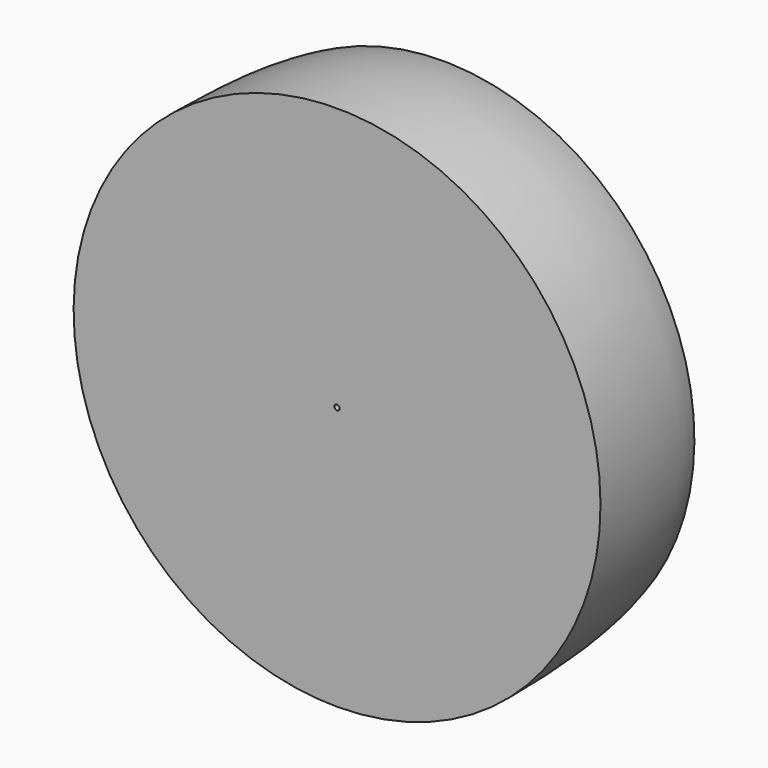
from build123d import *

# Parameters (mm, degrees)
SKETCH043_W   = 5.272505
SKETCH043_H   = 4.54278
SKETCH043_W_2 = 8.635091
SKETCH043_H_2 = 4.530322


with BuildPart() as part:
    # Sketch042 → Revolution008 (revolve)
    with BuildSketch(Plane(origin=(0, 0, -0.01), x_dir=(0, -1, 0), z_dir=(1, 0, 0))):
        with BuildLine():
            add(Edge.make_bspline(
                [(-0.769069, 0.754505), (-0.951665, 0.760534), (-1.141624, 0.77961), (-1.207908, 0.98313), (-1.364894, 0.994421), (-1.864947, 0.98477), (-2.775705, 0.990587), (-2.785126, 0.387148), (-2.848858, 0.260184), (-2.896467, 0.235343), (-2.966179, 0.25)],
                knots=[0, 0, 0, 0, 0.125, 0.25, 0.375, 0.5, 0.625, 0.75, 0.875, 1, 1, 1, 1], degree=3))
            Line((-2.966179, 0.25), (-2.966179, 0))
            Line((-2.966179, 0), (0, 0))
            Line((0, 0), (0, 0.75))
            add(Edge.make_bspline(
                [(-0.769069, 0.754505), (-0.446942, 0.755366), (0, 0.75)],
                knots=[0, 0, 0, 1, 1, 1], degree=2))
        make_face()
    revolution008 = revolve(axis=Axis((0, 0, 0), (0, 1, 0)))

    # Mirrored012: Revolution008 across Sketch042 V_Axis
    add(revolution008.mirror(Plane(origin=(0, 0, -0.01), x_dir=(1, 0, 0), z_dir=(0, -1, 0))))

    # Sketch043 → Groove004 (revolve, cut)
    with BuildSketch(Plane.YZ):
        with Locations((5.136252, 2.27139)):
            Rectangle(SKETCH043_W, SKETCH043_H)
        with Locations((-2.317546, 2.265161)):
            Rectangle(SKETCH043_W_2, SKETCH043_H_2)
    revolve(axis=Axis((0, 0, 0), (0, 1, 0)), mode=Mode.SUBTRACT)


solid = part.part
